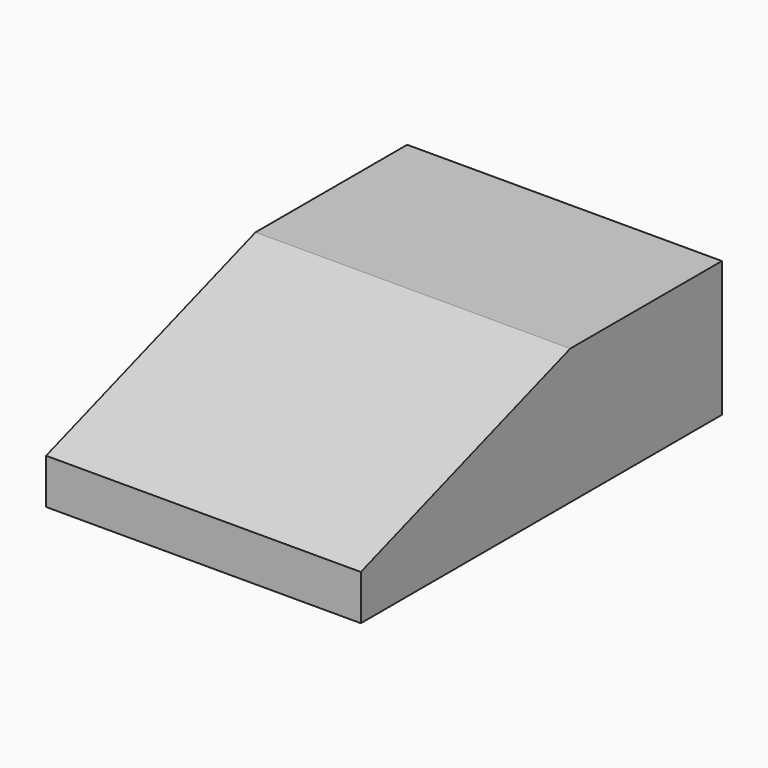
from build123d import *

# Parameters (mm, degrees)
PAD021_DEPTH    = 1046
THICKNESS001_T  = -18
SKETCH040_W     = 50
SKETCH040_H     = 50
SKETCH040_W_2   = 100
POCKET001_DEPTH = 18
SKETCH048_W     = 36
SKETCH048_H     = 18
PAD028_DEPTH    = 1464
SKETCH049_W     = 54
SKETCH049_H     = 18
PAD029_DEPTH    = 1010


with BuildPart() as part:
    # Sketch039 → Pad021 (new body)
    with BuildSketch(Plane.YZ):
        Polygon((0, 0), (0, 150), (870, 450), (1500, 450), (1500, 0), align=None)
    extrude(amount=PAD021_DEPTH)

    # Thickness001
    thickness001_openings = [part.faces().sort_by_distance(p)[0] for p in [
        (523, 750, 0),
    ]]
    offset(amount=THICKNESS001_T, openings=thickness001_openings)

    # Sketch040 → Pocket001 (cut)
    with BuildSketch(Plane(origin=(0, 1500, 0), x_dir=(-1, 0, 0), z_dir=(0, 1, 0))):
        with Locations((-898, 25)):
            Rectangle(SKETCH040_W, SKETCH040_H)
        with Locations((-148, 25)):
            Rectangle(SKETCH040_W, SKETCH040_H)
        with Locations((-523, 25)):
            Rectangle(SKETCH040_W_2, SKETCH040_H)
    extrude(amount=-POCKET001_DEPTH, mode=Mode.SUBTRACT)

    # Sketch048 → Pad028 (new body)
    with BuildSketch(Plane(origin=(0, 18, 0), x_dir=(-1, 0, 0), z_dir=(0, 1, 0))):
        with Locations((-1010, 59)):
            Rectangle(SKETCH048_W, SKETCH048_H)
        with Locations((-36, 59)):
            Rectangle(SKETCH048_W, SKETCH048_H)
    extrude(amount=PAD028_DEPTH)

    # Sketch049 → Pad029 (new body)
    with BuildSketch(Plane(origin=(0, 0, 0), x_dir=(0, -1, 0), z_dir=(-1, 0, 0))):
        with Locations((-45, 59)):
            Rectangle(SKETCH049_W, SKETCH049_H)
        with Locations((-1455, 59)):
            Rectangle(SKETCH049_W, SKETCH049_H)
    extrude(amount=-PAD029_DEPTH)


solid = part.part
